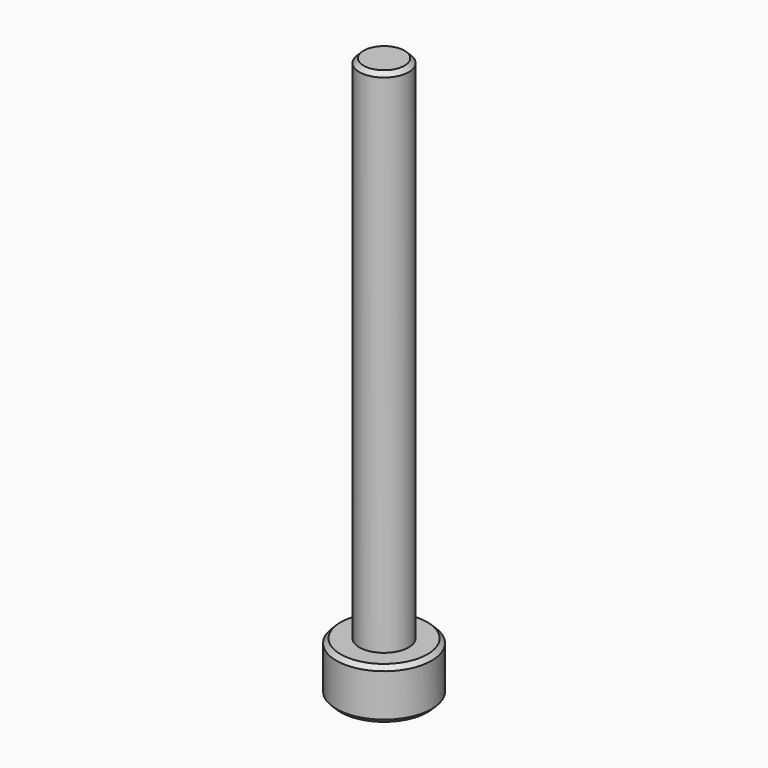
from build123d import *

# Parameters (mm, degrees)
SKETCH_R     = 2.8
PAD_DEPTH    = 3
SKETCH001_R  = 1.45
PAD001_DEPTH = 30
POCKET_DEPTH = 2
CHAMFER_SIZE = 0.25


with BuildPart() as part:
    # Sketch → Pad (new body)
    with BuildSketch(Plane.XY):
        Circle(SKETCH_R)
    extrude(amount=PAD_DEPTH)

    # Sketch001 (on Face3 of Pad) → Pad001 (join)
    with BuildSketch(Plane.XY.offset(3)):
        Circle(SKETCH001_R)
    extrude(amount=PAD001_DEPTH)

    # Sketch002 (on Face2 of Pad001) → Pocket (cut)
    with BuildSketch(Plane(origin=(0, 0, 0), x_dir=(1, 0, 0), z_dir=(0, 0, -1))):
        Polygon((1.259542, 0.814588), (-0.075682, 1.49809), (-1.335225, 0.683502), (-1.259542, -0.814588), (0.075682, -1.49809), (1.335225, -0.683502), align=None)
    extrude(amount=-POCKET_DEPTH, mode=Mode.SUBTRACT)

    # Chamfer
    chamfer_edges = [part.edges().sort_by_distance(p)[0] for p in [
        (-2.8, 0, 3),
        (-2.8, 0, 0),
        (1.297384, -0.065543, 0),
        (0.705454, 1.090796, 0),
        (-0.59193, 1.156339, 0),
        (-1.297384, 0.065543, 0),
        (-0.705454, -1.090796, 0),
        (0.59193, -1.156339, 0),
        (-1.45, 0, 33),
    ]]
    chamfer(chamfer_edges, length=CHAMFER_SIZE)


solid = part.part
